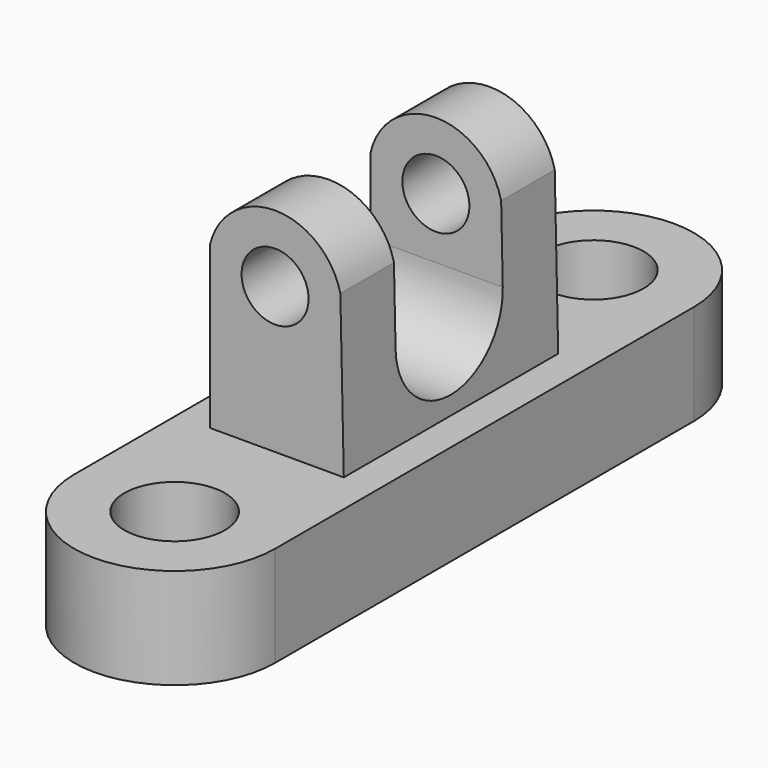
from build123d import *

# Parameters (mm, degrees)
F0_W      = 38.1
F0_H      = 99.228098
F1_DEPTH  = 19.05
F2_R      = 9.525
F3_DEPTH  = 127
F5_DEPTH  = 25.4
F6_R      = 6.35
F7_DEPTH  = 127
F9_DEPTH  = 63.5
F10_DEPTH = 127


with BuildPart() as f1:
    # F0 (on Top) → F1 (new body)
    with BuildSketch(Plane.XY):
        Rectangle(F0_W, F0_H)
        with BuildLine():
            Line((-19.05, 49.614049), (19.05, 49.614049))
            ThreePointArc((19.05, 49.614049), (0, 68.664049), (-19.05, 49.614049))
        make_face()
        with BuildLine():
            ThreePointArc((-19.05, -49.614049), (0, -68.664049), (19.05, -49.614049))
            Line((19.05, -49.614049), (-19.05, -49.614049))
        make_face()
    extrude(amount=F1_DEPTH)

    # F2 (on face) → F3 (cut)
    with BuildSketch(Plane.XY.offset(19.05)):
        with Locations((0, 49.614049)):
            Circle(F2_R)
        with Locations((0, -49.614049)):
            Circle(F2_R)
    extrude(amount=-F3_DEPTH, mode=Mode.SUBTRACT)

    # F4 (on Front) → F5 (join, symmetric)
    with BuildSketch(Plane.XZ):
        with BuildLine():
            Line((-12.7, 19.05), (0, 19.05))
            Line((0, 19.05), (12.7, 19.05))
            Line((12.7, 19.05), (12.045477, 49.522972))
            ThreePointArc((12.045477, 49.522972), (-0.324468, 59.36199), (-12.7, 49.53))
            Line((-12.7, 49.53), (-12.7, 19.05))
        make_face()
    extrude(amount=F5_DEPTH, both=True)

    # F6 (on face) → F7 (cut)
    with BuildSketch(Plane(origin=(0, 25.4, 0), x_dir=(-1, 0, 0), z_dir=(0, 1, 0))):
        with Locations((0.328075, 46.661991)):
            Circle(F6_R)
    extrude(amount=-F7_DEPTH, mode=Mode.SUBTRACT)

    # F8 (on Right) → F9 (cut, symmetric)
    with BuildSketch(Plane.YZ):
        with BuildLine():
            Line((12.7, 35.172723), (12.7, 75.489088))
            Line((12.7, 75.489088), (-12.7, 75.489088))
            Line((-12.7, 75.489088), (-12.7, 35.172723))
            ThreePointArc((-12.7, 35.172723), (0, 22.472723), (12.7, 35.172723))
        make_face()
    extrude(amount=F9_DEPTH, both=True, mode=Mode.SUBTRACT)

    # F8 (on Right) → F10 (cut, symmetric)
    with BuildSketch(Plane.YZ):
        with BuildLine():
            Line((12.7, 35.172723), (12.7, 75.489088))
            Line((12.7, 75.489088), (-12.7, 75.489088))
            Line((-12.7, 75.489088), (-12.7, 35.172723))
            ThreePointArc((-12.7, 35.172723), (0, 22.472723), (12.7, 35.172723))
        make_face()
    extrude(amount=F10_DEPTH, both=True, mode=Mode.SUBTRACT)


solid = f1.part
